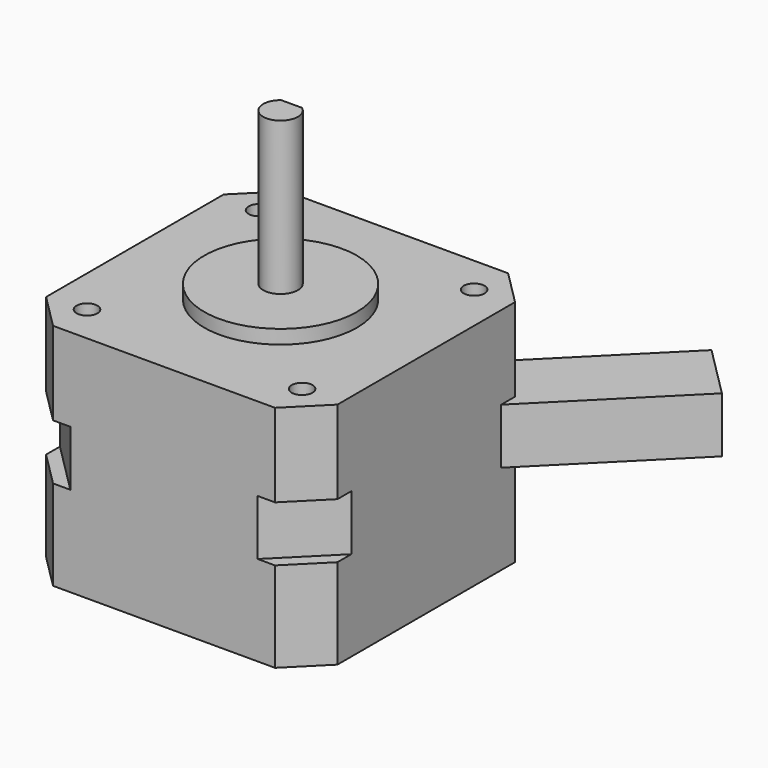
from build123d import *

# Parameters (mm, degrees)
F0_W      = 42
F0_H      = 42
F1_DEPTH  = 4
F2_SIZE   = 7.5
F4_DEPTH  = 12
F5_SIZE   = 5
F7_DEPTH  = 13
F8_R      = 11
F9_DEPTH  = 2
F10_R     = 2.5
F11_DEPTH = 22
F12_W     = 5.2537292178
F12_H     = 0.9334036984
F13_DEPTH = 22
F14_R     = 1.5
F15_DEPTH = 6
F16_DEPTH = 25


with BuildPart() as f1:
    # F0 (on Top) → F1 (new body, symmetric)
    with BuildSketch(Plane.XY):
        Rectangle(F0_W, F0_H)
    extrude(amount=F1_DEPTH, both=True)

    # F2
    f2_edges = [f1.edges().sort_by_distance(p)[0] for p in [
        (21, 21, 0),
        (-21, 21, 0),
        (-21, -21, 0),
        (21, -21, 0),
    ]]
    chamfer(f2_edges, length=F2_SIZE)

    # F3 (on face) → F4 (join)
    with BuildSketch(Plane.XY.offset(4)):
        Polygon((13.5, 21), (-13.5, 21), (-21, 13.5), (-21, -13.5), (-13.5, -21), (13.5, -21), (21, -13.5), (21, 13.5), align=None)
        Polygon((21, 21), (13.5, 21), (21, 13.5), align=None)
        Polygon((-13.5, 21), (-21, 21), (-21, 13.5), align=None)
        Polygon((-13.5, -21), (-21, -13.5), (-21, -21), align=None)
        Polygon((21, -21), (21, -13.5), (13.5, -21), align=None)
    extrude(amount=F4_DEPTH)

    # F5
    f5_edges = [f1.edges().sort_by_distance(p)[0] for p in [
        (21, -21, 10),
        (-21, -21, 10),
        (-21, 21, 10),
        (21, 21, 10),
    ]]
    chamfer(f5_edges, length=F5_SIZE)

    # F6 (on face) → F7 (join)
    with BuildSketch(Plane(origin=(0, 0, -4), x_dir=(1, 0, 0), z_dir=(0, 0, -1))):
        Polygon((21, -16), (21, 16), (16, 21), (-16, 21), (-21, 16), (-21, -16), (-16, -21), (16, -21), align=None)
    extrude(amount=F7_DEPTH)

    # F8 (on face) → F9 (join)
    with BuildSketch(Plane.XY.offset(16)):
        Circle(F8_R)
    extrude(amount=F9_DEPTH)

    # F10 (on face) → F11 (join)
    with BuildSketch(Plane.XY.offset(18)):
        Circle(F10_R)
    extrude(amount=F11_DEPTH)

    # F12 (on face) → F13 (cut)
    with BuildSketch(Plane.XY.offset(40)):
        with Locations((-0.0065014465, 2.4667018492)):
            Rectangle(F12_W, F12_H)
    extrude(amount=-F13_DEPTH, mode=Mode.SUBTRACT)

    # F14 (on face) → F15 (cut)
    with BuildSketch(Plane.XY.offset(16)):
        with Locations((-15.5, 15.5)):
            Circle(F14_R)
        with Locations((15.5, 15.5)):
            Circle(F14_R)
        with Locations((-15.5, -15.5)):
            Circle(F14_R)
        with Locations((15.5, -15.5)):
            Circle(F14_R)
    extrude(amount=-F15_DEPTH, mode=Mode.SUBTRACT)

    # F16 (add): a face of the model
    f16_faces = [f1.faces().sort_by_distance(p)[0] for p in [
        (17.25, 17.25, 0),
    ]]
    extrude(f16_faces, amount=F16_DEPTH)


solid = f1.part
